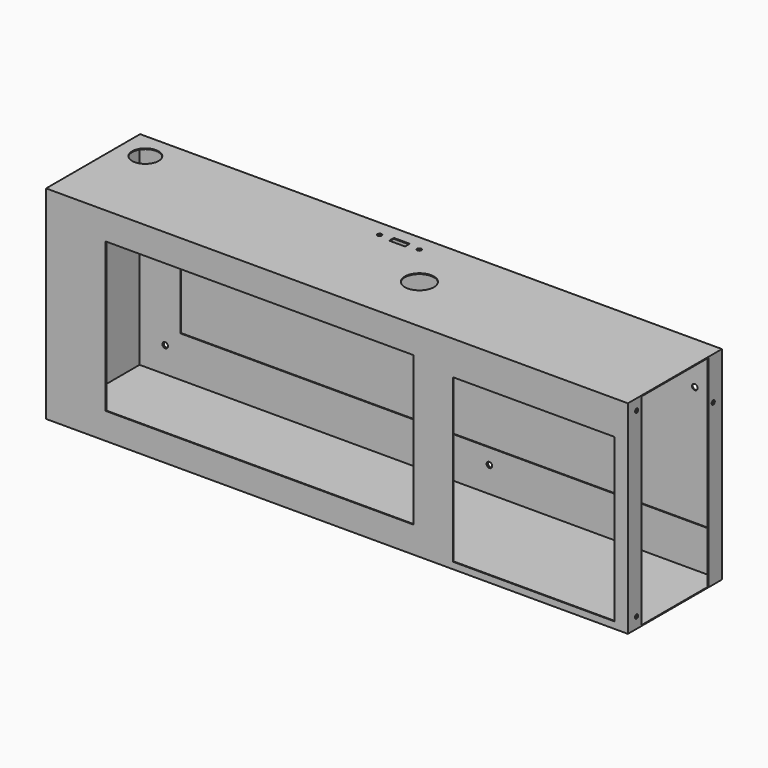
from build123d import *

# Parameters (mm, degrees)
F0_W      = 440
F0_H      = 88.87
F0_R      = 10
F0_R_2    = 1.6
F0_W_2    = 12
F0_H_2    = 4.5
F0_R_3    = 11
F1_DEPTH  = 0.635
F2_W      = 440
F2_H      = 152.87
F2_R      = 2.1
F3_DEPTH  = 0.635
F4_W      = 440
F4_H      = 152.87
F4_W_2    = 232.765
F4_H_2    = 112.87
F4_W_3    = 122.235
F4_H_3    = 122.87
F5_DEPTH  = 0.635
F6_W      = 440
F6_H      = 87.6
F7_DEPTH  = 0.635
F8_W      = 440
F8_H      = 30.965
F8_R      = 2.1
F9_DEPTH  = 0.635
F11_W     = 31.6
F11_H     = 121.27
F11_R     = 2.1
F12_DEPTH = 0.635
F13_DEPTH = 0.635
F14_W     = 12.1
F14_H     = 152.235
F14_R     = 1.5
F15_DEPTH = 0.635


with BuildPart() as f1:
    # F0 (on Top) → F1 (new body)
    with BuildSketch(Plane.XY):
        with Locations((220, -44.435)):
            Rectangle(F0_W, F0_H)
        with Locations((20, -20)):
            Circle(F0_R, mode=Mode.SUBTRACT)
        with Locations((190.92939, -12.25)):
            Circle(F0_R_2, mode=Mode.SUBTRACT)
        with Locations((205.92939, -12.25)):
            Rectangle(F0_W_2, F0_H_2, mode=Mode.SUBTRACT)
        with Locations((246.765, -44.435)):
            Circle(F0_R_3, mode=Mode.SUBTRACT)
        with Locations((220.92939, -12.25)):
            Circle(F0_R_2, mode=Mode.SUBTRACT)
    extrude(amount=F1_DEPTH)

    # F2 (on Front) → F3 (join)
    with BuildSketch(Plane.XZ):
        with Locations((220, -76.435)):
            Rectangle(F2_W, F2_H)
        with Locations((20, -132.87)):
            Circle(F2_R, mode=Mode.SUBTRACT)
        with Locations((265.143272, -132.87)):
            Circle(F2_R, mode=Mode.SUBTRACT)
        with Locations((20, -20)):
            Circle(F2_R, mode=Mode.SUBTRACT)
        with Locations((420, -30.92768)):
            Circle(F2_R, mode=Mode.SUBTRACT)
    extrude(amount=F3_DEPTH)

    # F4 (on face) → F5 (join)
    with BuildSketch(Plane.XZ.offset(88.87)):
        with Locations((220, -76.435)):
            Rectangle(F4_W, F4_H)
        with Locations((161.3825, -76.435)):
            Rectangle(F4_W_2, F4_H_2, mode=Mode.SUBTRACT)
        with Locations((368.8825, -86.435)):
            Rectangle(F4_W_3, F4_H_3, mode=Mode.SUBTRACT)
    extrude(amount=-F5_DEPTH)

    # F6 (on face) → F7 (join)
    with BuildSketch(Plane(origin=(0, 0, -152.87), x_dir=(1, 0, 0), z_dir=(0, 0, -1))):
        with Locations((220, 44.435)):
            Rectangle(F6_W, F6_H)
    extrude(amount=-F7_DEPTH)

    # F8 (on face) → F9 (join)
    with BuildSketch(Plane.XZ.offset(0.635)):
        with Locations((220, -136.7525)):
            Rectangle(F8_W, F8_H)
        with Locations((20, -132.87)):
            Circle(F8_R, mode=Mode.SUBTRACT)
        with Locations((265.143272, -132.87)):
            Circle(F8_R, mode=Mode.SUBTRACT)
    extrude(amount=F9_DEPTH)

    # F11 (on face) → F12 (join)
    with BuildSketch(Plane.XZ.offset(0.635)):
        with Locations((15.8, -60.635)):
            Rectangle(F11_W, F11_H)
        with Locations((20, -20)):
            Circle(F11_R, mode=Mode.SUBTRACT)
    extrude(amount=F12_DEPTH)

    # F10 (on face) → F13 (join)
    with BuildSketch(Plane(origin=(0, 0, 0), x_dir=(0, -1, 0), z_dir=(-1, 0, 0))):
        Polygon((88.235, 0), (0.635, 0), (0.635, -121.27), (1.27, -121.27), (1.27, -152.235), (88.235, -152.235), align=None)
    extrude(amount=-F13_DEPTH)

    # F14 (on face) → F15 (join)
    with BuildSketch(Plane.YZ.offset(440)):
        with Locations((-82.185, -76.1175)):
            Rectangle(F14_W, F14_H)
        with Locations((-80.635, -144.635)):
            Circle(F14_R, mode=Mode.SUBTRACT)
        with Locations((-80.635, -7.6)):
            Circle(F14_R, mode=Mode.SUBTRACT)
        Polygon((-0.635, 0), (-12.735, 0), (-12.735, -152.235), (-1.27, -152.235), (-1.27, -121.27), (-0.635, -121.27), align=None)
        with Locations((-8.235, -31.6)):
            Circle(F14_R, mode=Mode.SUBTRACT)
    extrude(amount=-F15_DEPTH)


solid = f1.part
